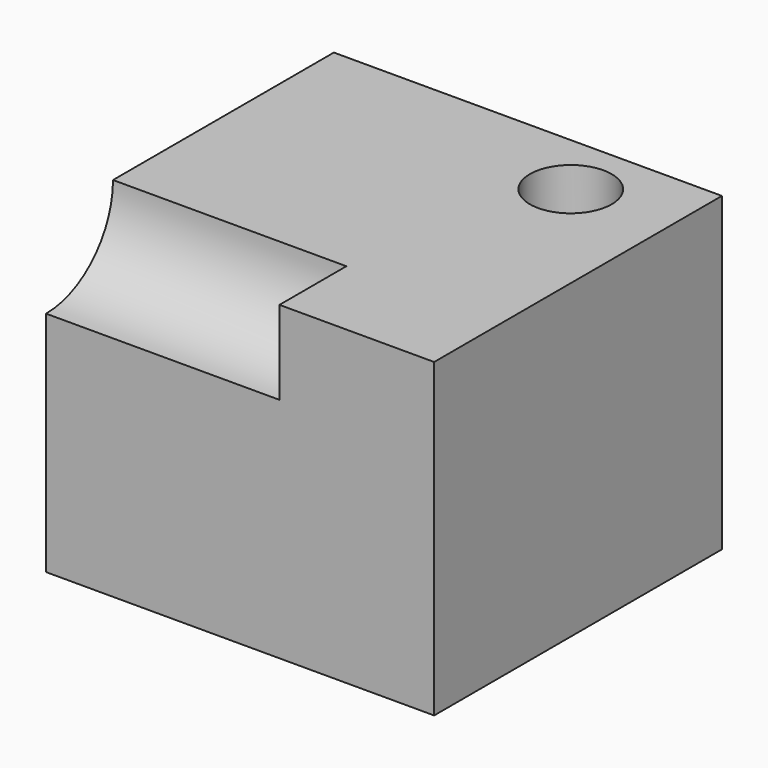
from build123d import *

# Parameters (mm, degrees)
F0_W     = 63.351966
F0_H     = 58.721166
F1_DEPTH = 50.8
F2_R     = 6.67715
F3_DEPTH = 25.4
F4_R     = 5.78901
F5_DEPTH = 25.4
F6_R     = 13.653807
F7_DEPTH = 38.1


with BuildPart() as f1:
    # F0 (on Top) → F1 (new body)
    with BuildSketch(Plane.XY):
        with Locations((31.675983, 29.360583)):
            Rectangle(F0_W, F0_H)
    extrude(amount=F1_DEPTH)

    # F2 (on face) → F3 (cut)
    with BuildSketch(Plane.XY.offset(50.8)):
        with Locations((47.149416, 48.132766)):
            Circle(F2_R)
    extrude(amount=-F3_DEPTH, mode=Mode.SUBTRACT)

    # F4 (on face) → F5 (cut)
    with BuildSketch(Plane(origin=(0, 0, 0), x_dir=(1, 0, 0), z_dir=(0, 0, -1))):
        with Locations((9.225111, -8.943532)):
            Circle(F4_R)
    extrude(amount=-F5_DEPTH, mode=Mode.SUBTRACT)

    # F6 (on face) → F7 (cut)
    with BuildSketch(Plane(origin=(0, 0, 0), x_dir=(0, -1, 0), z_dir=(-1, 0, 0))):
        with Locations((0, 50.8)):
            Circle(F6_R)
    extrude(amount=-F7_DEPTH, mode=Mode.SUBTRACT)


solid = f1.part
